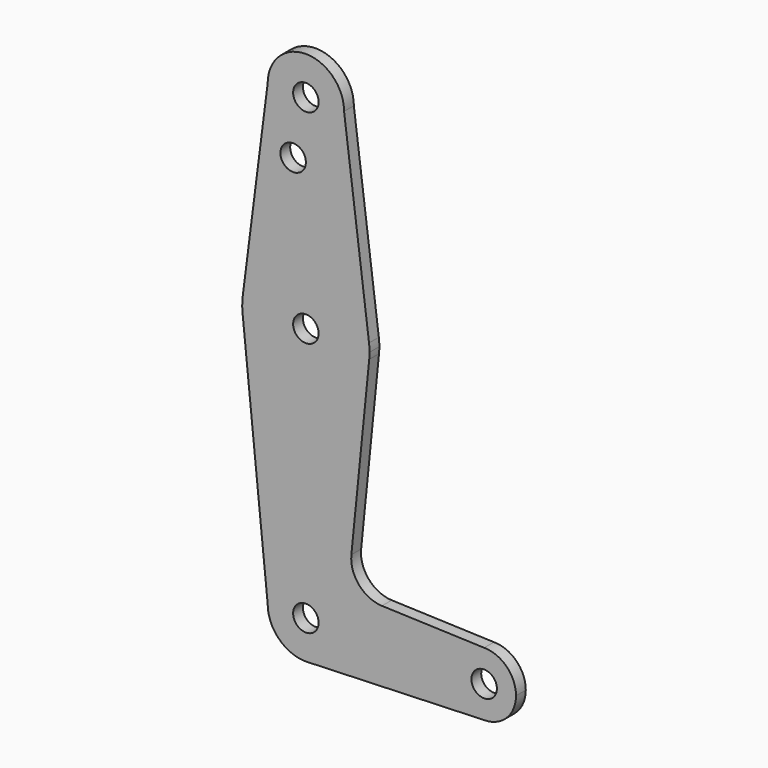
from build123d import *

# Parameters (mm, degrees)
F0_R     = 3.175
F1_DEPTH = 3.048
F2_DEPTH = 3.048


with BuildPart() as f1:
    # F0 (on Front) → F1 (new body)
    with BuildSketch(Plane.XZ):
        with BuildLine():
            ThreePointArc((-9.525, 50.8), (0, 41.275), (9.525, 50.8))
            ThreePointArc((9.525, 50.8), (0, 60.325), (-9.525, 50.8))
        make_face()
        with Locations((0, 50.8)):
            Circle(F0_R, mode=Mode.SUBTRACT)
        with BuildLine():
            Line((15.747457, 2.008289), (9.525, 50.8))
            ThreePointArc((9.525, 50.8), (0, 41.275), (-9.525, 50.8))
            Line((-9.525, 50.8), (-15.747457, 2.008289))
            ThreePointArc((-15.747457, 2.008289), (0, 15.875), (15.747457, 2.008289))
        make_face()
        with Locations((-3.175, 36.5252)):
            Circle(F0_R, mode=Mode.SUBTRACT)
        with BuildLine():
            ThreePointArc((15.875, 0), (15.843082, 1.006168), (15.747457, 2.008289))
            ThreePointArc((15.747457, 2.008289), (0, 15.875), (-15.747457, 2.008289))
            ThreePointArc((-15.747457, 2.008289), (-15.873668, 0.205667), (-15.794203, -1.59962))
            ThreePointArc((-15.794203, -1.59962), (0.006091, -15.874999), (15.795426, -1.5875))
            ThreePointArc((15.795426, -1.5875), (15.855094, -0.794747), (15.875, 0))
        make_face()
        Circle(F0_R, mode=Mode.SUBTRACT)
        with BuildLine():
            ThreePointArc((15.795426, -1.5875), (0.006091, -15.874999), (-15.794203, -1.59962))
            Line((-15.794203, -1.59962), (-9.525, -63.5))
            ThreePointArc((-9.525, -63.5), (0, -53.975), (9.525, -63.5))
            Line((9.525, -63.5), (36.5125, -63.5))
            ThreePointArc((36.5125, -63.5), (38.83734, -57.88734), (44.45, -55.5625))
            Line((44.45, -55.5625), (18.966474, -54.648866))
            ThreePointArc((18.966474, -54.648866), (13.260686, -51.930429), (11.340972, -45.90875))
            Line((11.340972, -45.90875), (15.795426, -1.5875))
        make_face()
        with Locations((0, -63.5)):
            Circle(F0_R)
        with BuildLine():
            ThreePointArc((9.525, -63.5), (0, -53.975), (-9.525, -63.5))
            ThreePointArc((-9.525, -63.5), (-6.613434, -70.354788), (0.341271, -73.018884))
            ThreePointArc((0.341271, -73.018884), (6.854788, -70.113434), (9.525, -63.5))
        make_face()
        with Locations((0, -63.5)):
            Circle(F0_R, mode=Mode.SUBTRACT)
        with BuildLine():
            Line((36.5125, -63.5), (9.525, -63.5))
            ThreePointArc((9.525, -63.5), (6.854788, -70.113434), (0.341271, -73.018884))
            Line((0.341271, -73.018884), (44.45, -71.4375))
            ThreePointArc((44.45, -71.4375), (38.83734, -69.11266), (36.5125, -63.5))
        make_face()
        with BuildLine():
            ThreePointArc((47.625, -63.5), (44.45, -60.325), (41.275, -63.5))
            ThreePointArc((41.275, -63.5), (44.45, -66.675), (47.625, -63.5))
        make_face()
        with BuildLine():
            ThreePointArc((44.45, -55.5625), (38.83734, -57.88734), (36.5125, -63.5))
            ThreePointArc((36.5125, -63.5), (38.83734, -69.11266), (44.45, -71.4375))
            ThreePointArc((44.45, -71.4375), (50.06266, -69.11266), (52.3875, -63.5))
            ThreePointArc((52.3875, -63.5), (50.06266, -57.88734), (44.45, -55.5625))
        make_face()
        with BuildLine():
            ThreePointArc((47.625, -63.5), (44.45, -66.675), (41.275, -63.5))
            ThreePointArc((41.275, -63.5), (44.45, -60.325), (47.625, -63.5))
        make_face(mode=Mode.SUBTRACT)
    extrude(amount=F1_DEPTH)

    # F0 (on Front) → F2 (join)
    with BuildSketch(Plane.XZ):
        with BuildLine():
            ThreePointArc((-9.525, 50.8), (0, 41.275), (9.525, 50.8))
            ThreePointArc((9.525, 50.8), (0, 60.325), (-9.525, 50.8))
        make_face()
        with Locations((0, 50.8)):
            Circle(F0_R, mode=Mode.SUBTRACT)
        with BuildLine():
            Line((15.747457, 2.008289), (9.525, 50.8))
            ThreePointArc((9.525, 50.8), (0, 41.275), (-9.525, 50.8))
            Line((-9.525, 50.8), (-15.747457, 2.008289))
            ThreePointArc((-15.747457, 2.008289), (0, 15.875), (15.747457, 2.008289))
        make_face()
        with Locations((-3.175, 36.5252)):
            Circle(F0_R, mode=Mode.SUBTRACT)
        with BuildLine():
            ThreePointArc((15.875, 0), (15.843082, 1.006168), (15.747457, 2.008289))
            ThreePointArc((15.747457, 2.008289), (0, 15.875), (-15.747457, 2.008289))
            ThreePointArc((-15.747457, 2.008289), (-15.873668, 0.205667), (-15.794203, -1.59962))
            ThreePointArc((-15.794203, -1.59962), (0.006091, -15.874999), (15.795426, -1.5875))
            ThreePointArc((15.795426, -1.5875), (15.855094, -0.794747), (15.875, 0))
        make_face()
        Circle(F0_R, mode=Mode.SUBTRACT)
        with BuildLine():
            ThreePointArc((15.795426, -1.5875), (0.006091, -15.874999), (-15.794203, -1.59962))
            Line((-15.794203, -1.59962), (-9.525, -63.5))
            ThreePointArc((-9.525, -63.5), (0, -53.975), (9.525, -63.5))
            Line((9.525, -63.5), (36.5125, -63.5))
            ThreePointArc((36.5125, -63.5), (38.83734, -57.88734), (44.45, -55.5625))
            Line((44.45, -55.5625), (18.966474, -54.648866))
            ThreePointArc((18.966474, -54.648866), (13.260686, -51.930429), (11.340972, -45.90875))
            Line((11.340972, -45.90875), (15.795426, -1.5875))
        make_face()
        with Locations((0, -63.5)):
            Circle(F0_R)
        with BuildLine():
            ThreePointArc((9.525, -63.5), (0, -53.975), (-9.525, -63.5))
            ThreePointArc((-9.525, -63.5), (-6.613434, -70.354788), (0.341271, -73.018884))
            ThreePointArc((0.341271, -73.018884), (6.854788, -70.113434), (9.525, -63.5))
        make_face()
        with Locations((0, -63.5)):
            Circle(F0_R, mode=Mode.SUBTRACT)
        with BuildLine():
            Line((36.5125, -63.5), (9.525, -63.5))
            ThreePointArc((9.525, -63.5), (6.854788, -70.113434), (0.341271, -73.018884))
            Line((0.341271, -73.018884), (44.45, -71.4375))
            ThreePointArc((44.45, -71.4375), (38.83734, -69.11266), (36.5125, -63.5))
        make_face()
        with BuildLine():
            ThreePointArc((47.625, -63.5), (44.45, -60.325), (41.275, -63.5))
            ThreePointArc((41.275, -63.5), (44.45, -66.675), (47.625, -63.5))
        make_face()
        with BuildLine():
            ThreePointArc((44.45, -55.5625), (38.83734, -57.88734), (36.5125, -63.5))
            ThreePointArc((36.5125, -63.5), (38.83734, -69.11266), (44.45, -71.4375))
            ThreePointArc((44.45, -71.4375), (50.06266, -69.11266), (52.3875, -63.5))
            ThreePointArc((52.3875, -63.5), (50.06266, -57.88734), (44.45, -55.5625))
        make_face()
        with BuildLine():
            ThreePointArc((47.625, -63.5), (44.45, -66.675), (41.275, -63.5))
            ThreePointArc((41.275, -63.5), (44.45, -60.325), (47.625, -63.5))
        make_face(mode=Mode.SUBTRACT)
    extrude(amount=F2_DEPTH)


solid = f1.part
